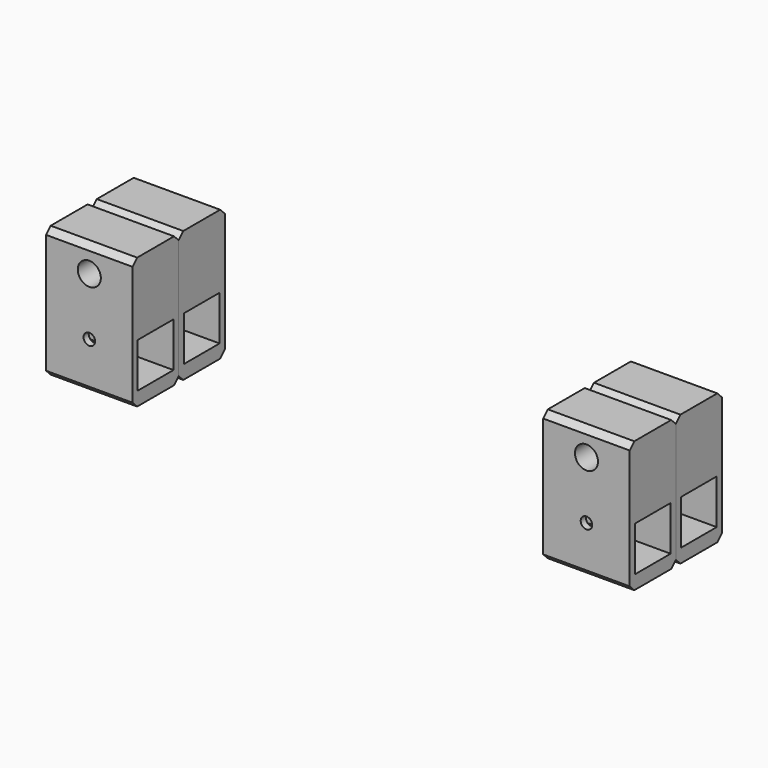
from build123d import *

# Parameters (mm, degrees)
F0_W      = 30
F0_H      = 54
F0_R      = 2
F0_R_2    = 4
F1_DEPTH  = 20
F2_W      = 15.5
F2_H      = 15.5
F2_W_2    = 20
F2_H_2    = 8.5
F3_DEPTH  = 202.501
F0_R_3    = 3
F4_DEPTH  = 2
F5_SIZE   = 2
F5_2_SIZE = 2


with BuildPart() as f1:
    # F0 (on Front) → F1 (new body)
    with BuildSketch(Plane.XZ):
        with Locations((-75, -18)):
            Rectangle(F0_W, F0_H)
        with Locations((-75, -20)):
            Circle(F0_R, mode=Mode.SUBTRACT)
        with Locations((-75, 0)):
            Circle(F0_R_2, mode=Mode.SUBTRACT)
    extrude(amount=-F1_DEPTH)


with BuildPart() as f1b:
    # F0 (on Front) → F1, piece 2 (new body)
    with BuildSketch(Plane.XZ):
        with Locations((97.5, -18)):
            Rectangle(F0_W, F0_H)
        with Locations((97.5, -20)):
            Circle(F0_R, mode=Mode.SUBTRACT)
        with Locations((97.5, 0)):
            Circle(F0_R_2, mode=Mode.SUBTRACT)
    extrude(amount=-F1_DEPTH)


with BuildPart() as f3_tool:
    # F2 (on face) → F3 (new body, through all)
    with BuildSketch(Plane(origin=(-90, 0, 0), x_dir=(0, -1, 0), z_dir=(-1, 0, 0))):
        with Locations((-10, -24)):
            Rectangle(F2_W, F2_H)
        with Locations((-10, -40.75)):
            Rectangle(F2_W_2, F2_H_2)
    extrude(amount=-F3_DEPTH)


with BuildPart() as f1_1:
    add(f1.part)

    # F3: cut by f3_tool
    add(f3_tool.part, mode=Mode.SUBTRACT)

    # F0 (on Front) → F4, piece 2 (join)
    with BuildSketch(Plane.XZ):
        with Locations((-75, 0)):
            Circle(F0_R_2)
        with Locations((-75, 0)):
            Circle(F0_R_3, mode=Mode.SUBTRACT)
    extrude(amount=-F4_DEPTH)

    # F5
    f5_edges = [f1_1.edges().sort_by_distance(p)[0] for p in [
        (-75, 20, 9),
        (-75, 20, -36.5),
        (-75, 0, -36.5),
        (-75, 0, 9),
    ]]
    chamfer(f5_edges, length=F5_SIZE)


with BuildPart() as f1b_1:
    add(f1b.part)

    # F3: cut by f3_tool
    add(f3_tool.part, mode=Mode.SUBTRACT)

    # F0 (on Front) → F4 (join)
    with BuildSketch(Plane.XZ):
        with Locations((97.5, 0)):
            Circle(F0_R_2)
        with Locations((97.5, 0)):
            Circle(F0_R_3, mode=Mode.SUBTRACT)
    extrude(amount=-F4_DEPTH)

    # F5#2
    f5_2_edges = [f1b_1.edges().sort_by_distance(p)[0] for p in [
        (97.5, 0, 9),
        (97.5, 0, -36.5),
        (97.5, 20, 9),
        (97.5, 20, -36.5),
    ]]
    chamfer(f5_2_edges, length=F5_2_SIZE)


with BuildPart() as f6_1:
    # F6: instance of F1
    add(f1_1.part.mirror(Plane.XZ))


with BuildPart() as f6_2:
    # F6: instance of F1b
    add(f1b_1.part.mirror(Plane.XZ))


solid = Compound([f1_1.part, f1b_1.part, f6_1.part, f6_2.part])
